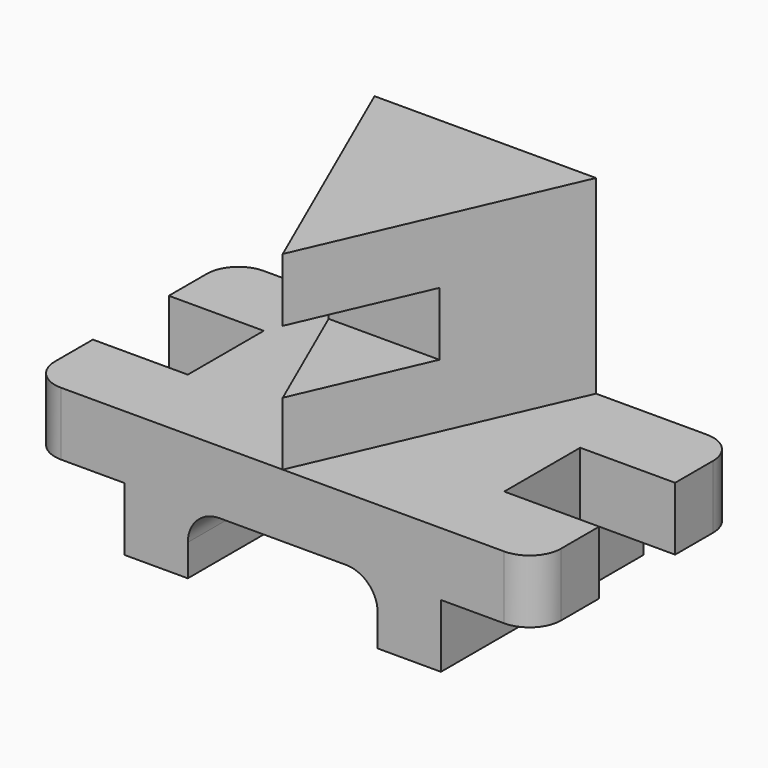
from build123d import *

# Parameters (mm, degrees)
F0_W     = 38.1
F0_H     = 38.1
F1_DEPTH = 25.4
F2_DEPTH = 25.4
F3_DEPTH = 76.2
F5_DEPTH = 25.4
F6_R     = 12.7
F7_W     = 50.8
F7_H     = 25.4
F8_DEPTH = 165.101


with BuildPart() as f1:
    # F0 (on Top) → F1 (new body)
    with BuildSketch(Plane.XY):
        with Locations((-82.55, 50.8)):
            Rectangle(F0_W, F0_H)
        with Locations((82.55, 50.8)):
            Rectangle(F0_W, F0_H)
        with BuildLine():
            ThreePointArc((-101.6, 12.7), (-97.8802561211, 3.7197438789), (-88.9, 0))
            Line((-88.9, 0), (0, 0))
            Line((0, 0), (-44.45, 101.6))
            Line((-44.45, 101.6), (-88.9, 101.6))
            ThreePointArc((-88.9, 101.6), (-97.8802561211, 97.8802561211), (-101.6, 88.9))
            Line((-101.6, 88.9), (-101.6, 69.85))
            Line((-101.6, 69.85), (-63.5, 69.85))
            Line((-63.5, 69.85), (-63.5, 31.75))
            Line((-63.5, 31.75), (-101.6, 31.75))
            Line((-101.6, 31.75), (-101.6, 12.7))
        make_face()
        with BuildLine():
            Line((44.45, 101.6), (0, 0))
            Line((0, 0), (88.9, 0))
            ThreePointArc((88.9, 0), (97.8802561211, 3.7197438789), (101.6, 12.7))
            Line((101.6, 12.7), (101.6, 31.75))
            Line((101.6, 31.75), (63.5, 31.75))
            Line((63.5, 31.75), (63.5, 69.85))
            Line((63.5, 69.85), (101.6, 69.85))
            Line((101.6, 69.85), (101.6, 88.9))
            ThreePointArc((101.6, 88.9), (97.8802561211, 97.8802561211), (88.9, 101.6))
            Line((88.9, 101.6), (44.45, 101.6))
        make_face()
        Polygon((-44.45, 101.6), (0, 0), (44.45, 101.6), align=None)
    extrude(amount=-F1_DEPTH)

    # F0 (on Top) → F2 (cut)
    with BuildSketch(Plane.XY):
        with Locations((82.55, 50.8)):
            Rectangle(F0_W, F0_H)
        with Locations((-82.55, 50.8)):
            Rectangle(F0_W, F0_H)
    extrude(amount=-F2_DEPTH, mode=Mode.SUBTRACT)

    # F4 (on face) → F5 (join)
    with BuildSketch(Plane(origin=(0, 0, -25.4), x_dir=(1, 0, 0), z_dir=(0, 0, -1))):
        Polygon((-63.5, -101.6), (-38.1, -101.6), (-38.1, 0), (-63.5, 0), (-63.5, -31.75), (-63.5, -69.85), align=None)
        Polygon((63.5, -101.6), (63.5, -69.85), (63.5, -31.75), (63.5, 0), (38.1, 0), (38.1, -101.6), align=None)
    extrude(amount=F5_DEPTH)

    # F6
    f6_edges = [f1.edges().sort_by_distance(p)[0] for p in [
        (-38.1, 50.8, -25.4),
        (38.1, 50.8, -25.4),
    ]]
    fillet(f6_edges, radius=F6_R)


with BuildPart() as f3:
    # F0 (on Top) → F3 (new body)
    with BuildSketch(Plane.XY):
        Polygon((-44.45, 101.6), (0, 0), (44.45, 101.6), align=None)
    extrude(amount=F3_DEPTH)

    # F7 (on face) → F8 (cut, through all)
    with BuildSketch(Plane.YZ.offset(63.5)):
        with Locations((25.4, 38.1)):
            Rectangle(F7_W, F7_H)
    extrude(amount=-F8_DEPTH, mode=Mode.SUBTRACT)


solid = Compound([f1.part, f3.part])
